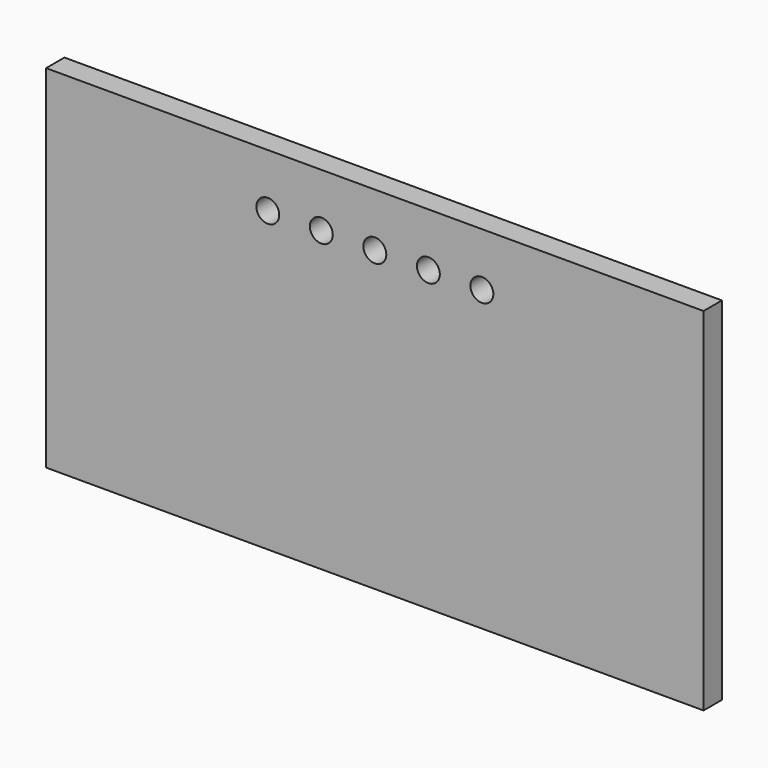
from build123d import *

# Parameters (mm, degrees)
SKETCH_W  = 86
SKETCH_H  = 46
SKETCH_R  = 1.5
PAD_DEPTH = 3


with BuildPart() as part:
    # Sketch → Pad (new body)
    with BuildSketch(Plane.XZ):
        Rectangle(SKETCH_W, SKETCH_H)
        with Locations((-7, 16)):
            Circle(SKETCH_R, mode=Mode.SUBTRACT)
        with Locations((0, 16)):
            Circle(SKETCH_R, mode=Mode.SUBTRACT)
        with Locations((7, 16)):
            Circle(SKETCH_R, mode=Mode.SUBTRACT)
        with Locations((14, 16)):
            Circle(SKETCH_R, mode=Mode.SUBTRACT)
        with Locations((-14, 16)):
            Circle(SKETCH_R, mode=Mode.SUBTRACT)
    extrude(amount=PAD_DEPTH)


solid = part.part
